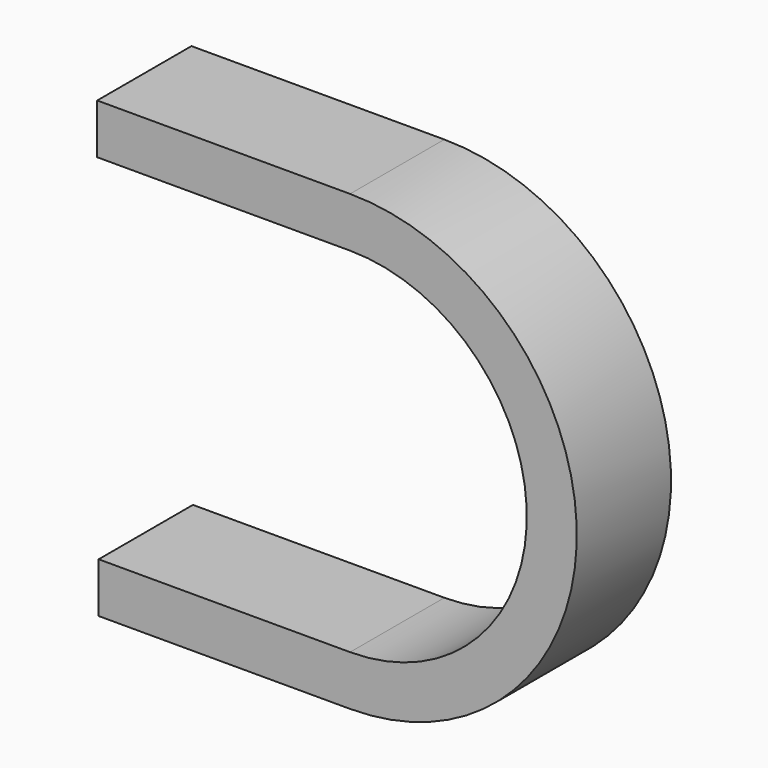
from build123d import *

# Parameters (mm, degrees)
F1_DEPTH = 19.05


with BuildPart() as f1:
    # F0 (on Front) → F1 (new body)
    with BuildSketch(Plane.XZ):
        with BuildLine():
            Line((-40.650893, -36.654754), (0, -36.654754))
            ThreePointArc((0, -36.654754), (36.654754, 0), (0, 36.654754))
            Line((0, 36.654754), (-40.886093, 36.654754))
            Line((-40.886093, 36.654754), (-40.886093, 28.575))
            Line((-40.886093, 28.575), (0, 28.575))
            ThreePointArc((0, 28.575), (28.575, 0), (0, -28.575))
            Line((0, -28.575), (-40.650893, -28.575))
            Line((-40.650893, -28.575), (-40.650893, -36.654754))
        make_face()
    extrude(amount=F1_DEPTH)


solid = f1.part
